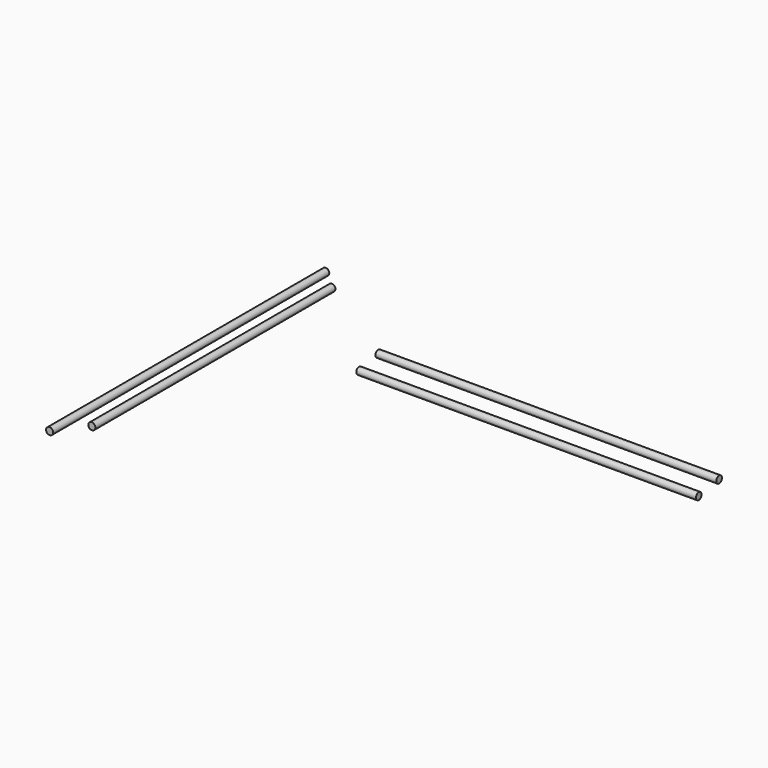
from build123d import *

# Parameters (mm, degrees)
F2_R     = 4
F5_DEPTH = 386.175
F3_R     = 4
F6_DEPTH = 391
F7_R     = 4
F8_DEPTH = 340
F4_R     = 4
F9_DEPTH = 384.8


with BuildPart() as f5:
    # F2 (on Right) → F5 (new body)
    with BuildSketch(Plane.YZ):
        Circle(F2_R)
    extrude(amount=F5_DEPTH)


with BuildPart() as f6:
    # F3 (on Front) → F6 (new body)
    with BuildSketch(Plane.XZ):
        with Locations((-59.4056621194, 62.2670501471)):
            Circle(F3_R)
    extrude(amount=F6_DEPTH)


with BuildPart() as f8:
    # F7 (on Front) → F8 (new body)
    with BuildSketch(Plane.XZ):
        with Locations((-52.4065308273, 48.6889071763)):
            Circle(F7_R)
    extrude(amount=F8_DEPTH)


with BuildPart() as f9:
    # F4 (on Right) → F9 (new body)
    with BuildSketch(Plane.YZ):
        with Locations((-27.0550493151, -6.0204425827)):
            Circle(F4_R)
    extrude(amount=F9_DEPTH)


solid = Compound([f5.part, f6.part, f8.part, f9.part])
